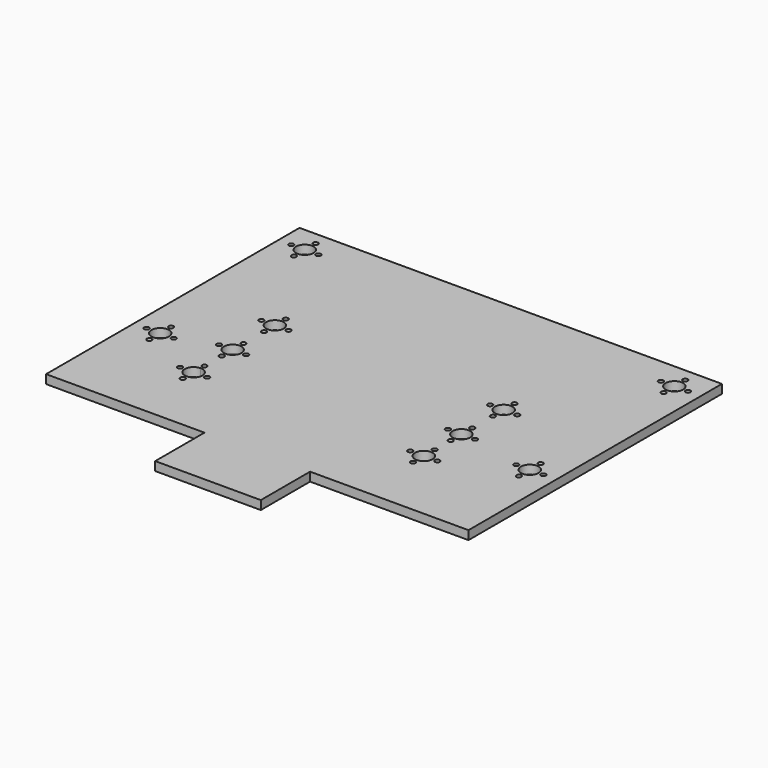
from build123d import *

# Parameters (mm, degrees)
F0_R     = 1.778
F0_R_2   = 6.35
F1_DEPTH = 6.35


with BuildPart() as f1:
    # F0 (on Top) → F1 (new body)
    with BuildSketch(Plane.XY):
        Polygon((152.4, 114.3), (-152.4, 114.3), (-152.4, -114.3), (-38.1, -114.3), (-38.1, -158.75), (38.1, -158.75), (38.1, -114.3), (152.4, -114.3), align=None)
        with Locations((-98.679, -60.579)):
            Circle(F0_R, mode=Mode.SUBTRACT)
        with Locations((-88.9, -70.358)):
            Circle(F0_R, mode=Mode.SUBTRACT)
        with BuildLine():
            ThreePointArc((-82.55, -60.579), (-93.390128, -65.069128), (-88.9, -54.229))
            ThreePointArc((-88.9, -54.229), (-84.409872, -56.088872), (-82.55, -60.579))
        make_face(mode=Mode.SUBTRACT)
        with Locations((-79.121, -60.579)):
            Circle(F0_R, mode=Mode.SUBTRACT)
        with Locations((-133.35, -44.958)):
            Circle(F0_R, mode=Mode.SUBTRACT)
        with Locations((-143.129, -35.179)):
            Circle(F0_R, mode=Mode.SUBTRACT)
        with Locations((-133.35, -35.179)):
            Circle(F0_R_2, mode=Mode.SUBTRACT)
        with Locations((-123.571, -35.179)):
            Circle(F0_R, mode=Mode.SUBTRACT)
        with Locations((-133.35, -25.4)):
            Circle(F0_R, mode=Mode.SUBTRACT)
        with BuildLine():
            ThreePointArc((-88.9, -52.578), (-90.157236, -49.542764), (-87.122, -50.8))
            ThreePointArc((-87.122, -50.8), (-87.642764, -52.057236), (-88.9, -52.578))
        make_face(mode=Mode.SUBTRACT)
        with Locations((-98.679, -25.4)):
            Circle(F0_R, mode=Mode.SUBTRACT)
        with Locations((-88.9, -35.179)):
            Circle(F0_R, mode=Mode.SUBTRACT)
        with Locations((-88.9, -25.4)):
            Circle(F0_R_2, mode=Mode.SUBTRACT)
        with Locations((-79.121, -25.4)):
            Circle(F0_R, mode=Mode.SUBTRACT)
        with Locations((66.421, -59.309)):
            Circle(F0_R, mode=Mode.SUBTRACT)
        with Locations((66.421, -25.4)):
            Circle(F0_R, mode=Mode.SUBTRACT)
        with Locations((76.2, -69.088)):
            Circle(F0_R, mode=Mode.SUBTRACT)
        with Locations((76.2, -59.309)):
            Circle(F0_R_2, mode=Mode.SUBTRACT)
        with Locations((85.979, -59.309)):
            Circle(F0_R, mode=Mode.SUBTRACT)
        with Locations((76.2, -49.53)):
            Circle(F0_R, mode=Mode.SUBTRACT)
        with Locations((76.2, -35.179)):
            Circle(F0_R, mode=Mode.SUBTRACT)
        with Locations((76.2, -25.4)):
            Circle(F0_R_2, mode=Mode.SUBTRACT)
        with Locations((85.979, -25.4)):
            Circle(F0_R, mode=Mode.SUBTRACT)
        with Locations((133.35, -44.958)):
            Circle(F0_R, mode=Mode.SUBTRACT)
        with Locations((123.571, -35.179)):
            Circle(F0_R, mode=Mode.SUBTRACT)
        with Locations((133.35, -35.179)):
            Circle(F0_R_2, mode=Mode.SUBTRACT)
        with Locations((143.129, -35.179)):
            Circle(F0_R, mode=Mode.SUBTRACT)
        with Locations((133.35, -25.4)):
            Circle(F0_R, mode=Mode.SUBTRACT)
        with Locations((-88.9, -15.621)):
            Circle(F0_R, mode=Mode.SUBTRACT)
        with Locations((-88.9, 2.921)):
            Circle(F0_R, mode=Mode.SUBTRACT)
        with Locations((-98.679, 12.7)):
            Circle(F0_R, mode=Mode.SUBTRACT)
        with Locations((-88.9, 12.7)):
            Circle(F0_R_2, mode=Mode.SUBTRACT)
        with Locations((-79.121, 12.7)):
            Circle(F0_R, mode=Mode.SUBTRACT)
        with Locations((-88.9, 22.479)):
            Circle(F0_R, mode=Mode.SUBTRACT)
        with Locations((-143.129, 95.25)):
            Circle(F0_R, mode=Mode.SUBTRACT)
        with Locations((-133.35, 85.471)):
            Circle(F0_R, mode=Mode.SUBTRACT)
        with Locations((-133.35, 95.25)):
            Circle(F0_R_2, mode=Mode.SUBTRACT)
        with Locations((-123.571, 95.25)):
            Circle(F0_R, mode=Mode.SUBTRACT)
        with Locations((-133.35, 105.029)):
            Circle(F0_R, mode=Mode.SUBTRACT)
        with Locations((66.421, 12.7)):
            Circle(F0_R, mode=Mode.SUBTRACT)
        with Locations((76.2, -15.621)):
            Circle(F0_R, mode=Mode.SUBTRACT)
        with Locations((76.2, 2.921)):
            Circle(F0_R, mode=Mode.SUBTRACT)
        with Locations((76.2, 12.7)):
            Circle(F0_R_2, mode=Mode.SUBTRACT)
        with Locations((85.979, 12.7)):
            Circle(F0_R, mode=Mode.SUBTRACT)
        with Locations((76.2, 22.479)):
            Circle(F0_R, mode=Mode.SUBTRACT)
        with Locations((123.571, 95.25)):
            Circle(F0_R, mode=Mode.SUBTRACT)
        with Locations((133.35, 85.471)):
            Circle(F0_R, mode=Mode.SUBTRACT)
        with Locations((133.35, 95.25)):
            Circle(F0_R_2, mode=Mode.SUBTRACT)
        with Locations((143.129, 95.25)):
            Circle(F0_R, mode=Mode.SUBTRACT)
        with Locations((133.35, 105.029)):
            Circle(F0_R, mode=Mode.SUBTRACT)
    extrude(amount=F1_DEPTH)


solid = f1.part
